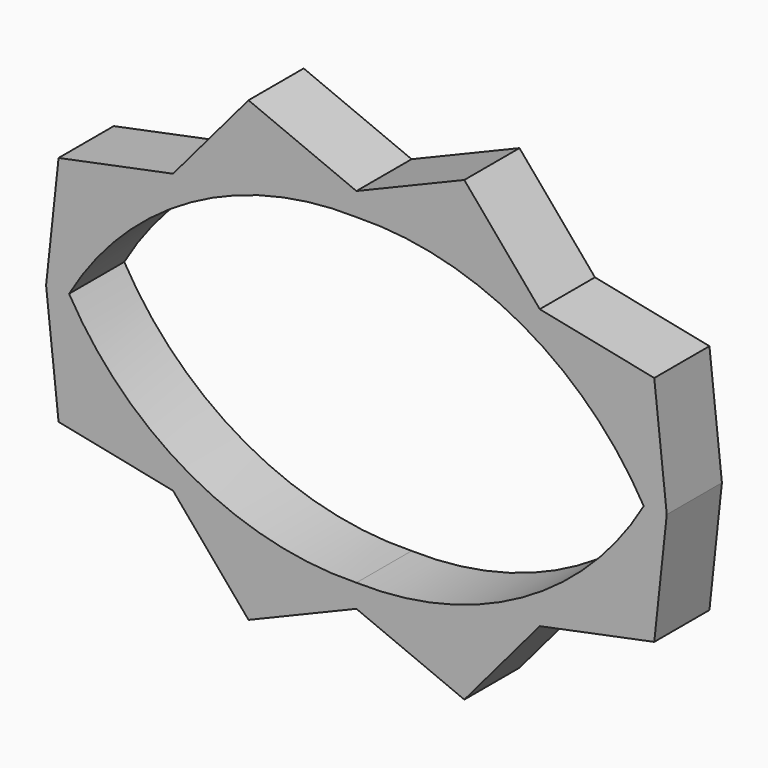
from build123d import *

# Parameters (mm, degrees)
F1_DEPTH = 7.62


with BuildPart() as f1:
    # F0 (on Front) → F1 (new body)
    with BuildSketch(Plane.XZ):
        with BuildLine():
            Line((-16.0371646342, 12.8369014025), (-13.4971646342, 12.8369014025))
            ThreePointArc((-13.4971646342, 12.8369014025), (-0.0687610955, 26.0958236548), (18.2528353658, 30.6169014025))
            Line((18.2528353658, 30.6169014025), (18.2528353658, 33.1569014025))
            Line((18.2528353658, 33.1569014025), (8.1230382592, 30.7048402699))
            Line((8.1230382592, 30.7048402699), (-2.0067588474, 28.2527791372))
            Line((-2.0067588474, 28.2527791372), (-9.0219617408, 20.5448402699))
            Line((-9.0219617408, 20.5448402699), (-16.0371646342, 12.8369014025))
        make_face()
        with BuildLine():
            ThreePointArc((18.2528353658, -4.9430985975), (-0.0687610955, -0.4220208498), (-13.4971646342, 12.8369014025))
            Line((-13.4971646342, 12.8369014025), (-16.0371646342, 12.8369014025))
            Line((-16.0371646342, 12.8369014025), (-9.0219617408, 5.1289625351))
            Line((-9.0219617408, 5.1289625351), (-2.0067588474, -2.5789763323))
            Line((-2.0067588474, -2.5789763323), (8.1230382592, -5.0310374649))
            Line((8.1230382592, -5.0310374649), (18.2528353658, -7.4830985975))
            Line((18.2528353658, -7.4830985975), (18.2528353658, -4.9430985975))
        make_face()
        with BuildLine():
            Line((18.2528353658, 33.1569014025), (18.2528353658, 30.6169014025))
            ThreePointArc((18.2528353658, 30.6169014025), (36.5744318271, 26.0958236548), (50.0028353658, 12.8369014025))
            Line((50.0028353658, 12.8369014025), (52.5428353658, 12.8369014025))
            Line((52.5428353658, 12.8369014025), (45.5276324724, 20.5448402699))
            Line((45.5276324724, 20.5448402699), (38.512429579, 28.2527791372))
            Line((38.512429579, 28.2527791372), (28.3826324724, 30.7048402699))
            Line((28.3826324724, 30.7048402699), (18.2528353658, 33.1569014025))
        make_face()
        with BuildLine():
            ThreePointArc((50.0028353658, 12.8369014025), (36.5744318271, -0.4220208498), (18.2528353658, -4.9430985975))
            Line((18.2528353658, -4.9430985975), (18.2528353658, -7.4830985975))
            Line((18.2528353658, -7.4830985975), (28.3826324724, -5.0310374649))
            Line((28.3826324724, -5.0310374649), (38.512429579, -2.5789763323))
            Line((38.512429579, -2.5789763323), (45.5276324724, 5.1289625351))
            Line((45.5276324724, 5.1289625351), (52.5428353658, 12.8369014025))
            Line((52.5428353658, 12.8369014025), (50.0028353658, 12.8369014025))
        make_face()
        with BuildLine():
            Line((-14.6573981315, 25.6738028049), (-16.0371646342, 12.8369014025))
            ThreePointArc((-16.0371646342, 12.8369014025), (-13.4333117701, 17.4347377534), (-10.1768890048, 21.5959706983))
            Line((-10.1768890048, 21.5959706983), (-14.6573981315, 25.6738028049))
        make_face()
        with BuildLine():
            Line((-9.0219617408, 5.1289625351), (-16.0371646342, 12.8369014025))
            ThreePointArc((-16.0371646342, 12.8369014025), (-13.4333117701, 8.2390650515), (-10.1768890048, 4.0778321066))
            Line((-10.1768890048, 4.0778321066), (-9.0219617408, 5.1289625351))
        make_face()
        with BuildLine():
            ThreePointArc((-10.1768890048, 21.5959706983), (-13.4333117701, 17.4347377534), (-16.0371646342, 12.8369014025))
            Line((-16.0371646342, 12.8369014025), (-9.0219617408, 20.5448402699))
            Line((-9.0219617408, 20.5448402699), (-10.1768890048, 21.5959706983))
        make_face()
        with BuildLine():
            ThreePointArc((-10.1768890048, 4.0778321066), (-13.4333117701, 8.2390650515), (-16.0371646342, 12.8369014025))
            Line((-16.0371646342, 12.8369014025), (-14.6573981315, 0))
            Line((-14.6573981315, 0), (-10.1768890048, 4.0778321066))
        make_face()
        with BuildLine():
            Line((8.1230382592, 30.7048402699), (18.2528353658, 33.1569014025))
            ThreePointArc((18.2528353658, 33.1569014025), (12.9694312928, 33.0808077166), (7.7556310569, 32.2226492534))
            Line((7.7556310569, 32.2226492534), (8.1230382592, 30.7048402699))
        make_face()
        with BuildLine():
            Line((30.1753859928, 38.1109482096), (18.2528353658, 33.1569014025))
            ThreePointArc((18.2528353658, 33.1569014025), (23.5362394389, 33.0808077166), (28.7500396748, 32.2226492534))
            Line((28.7500396748, 32.2226492534), (30.1753859928, 38.1109482096))
        make_face()
        with BuildLine():
            ThreePointArc((7.7556310569, 32.2226492534), (12.9694312928, 33.0808077166), (18.2528353658, 33.1569014025))
            Line((18.2528353658, 33.1569014025), (6.3302847389, 38.1109482096))
            Line((6.3302847389, 38.1109482096), (7.7556310569, 32.2226492534))
        make_face()
        with BuildLine():
            ThreePointArc((28.7500396748, 32.2226492534), (23.5362394389, 33.0808077166), (18.2528353658, 33.1569014025))
            Line((18.2528353658, 33.1569014025), (28.3826324724, 30.7048402699))
            Line((28.3826324724, 30.7048402699), (28.7500396748, 32.2226492534))
        make_face()
        with BuildLine():
            Line((6.3302847389, -12.4371454047), (18.2528353658, -7.4830985975))
            ThreePointArc((18.2528353658, -7.4830985975), (12.9694312928, -7.4070049116), (7.7556310569, -6.5488464484))
            Line((7.7556310569, -6.5488464484), (6.3302847389, -12.4371454047))
        make_face()
        with BuildLine():
            Line((28.3826324724, -5.0310374649), (18.2528353658, -7.4830985975))
            ThreePointArc((18.2528353658, -7.4830985975), (23.5362394389, -7.4070049116), (28.7500396748, -6.5488464484))
            Line((28.7500396748, -6.5488464484), (28.3826324724, -5.0310374649))
        make_face()
        with BuildLine():
            ThreePointArc((28.7500396748, -6.5488464484), (23.5362394389, -7.4070049116), (18.2528353658, -7.4830985975))
            Line((18.2528353658, -7.4830985975), (30.1753859928, -12.4371454047))
            Line((30.1753859928, -12.4371454047), (28.7500396748, -6.5488464484))
        make_face()
        with BuildLine():
            ThreePointArc((7.7556310569, -6.5488464484), (12.9694312928, -7.4070049116), (18.2528353658, -7.4830985975))
            Line((18.2528353658, -7.4830985975), (8.1230382592, -5.0310374649))
            Line((8.1230382592, -5.0310374649), (7.7556310569, -6.5488464484))
        make_face()
        with BuildLine():
            Line((-14.6573981315, 25.6738028049), (-10.1768890048, 21.5959706983))
            ThreePointArc((-10.1768890048, 21.5959706983), (-6.339797351, 25.2287212387), (-2.0067588474, 28.2527791372))
            Line((-2.0067588474, 28.2527791372), (-14.6573981315, 25.6738028049))
        make_face()
        with BuildLine():
            ThreePointArc((-2.0067588474, 28.2527791372), (-6.339797351, 25.2287212387), (-10.1768890048, 21.5959706983))
            Line((-10.1768890048, 21.5959706983), (-9.0219617408, 20.5448402699))
            Line((-9.0219617408, 20.5448402699), (-2.0067588474, 28.2527791372))
        make_face()
        with BuildLine():
            Line((-9.0219617408, 5.1289625351), (-10.1768890048, 4.0778321066))
            ThreePointArc((-10.1768890048, 4.0778321066), (-6.339797351, 0.4450815663), (-2.0067588474, -2.5789763323))
            Line((-2.0067588474, -2.5789763323), (-9.0219617408, 5.1289625351))
        make_face()
        with BuildLine():
            ThreePointArc((-2.0067588474, -2.5789763323), (-6.339797351, 0.4450815663), (-10.1768890048, 4.0778321066))
            Line((-10.1768890048, 4.0778321066), (-14.6573981315, 0))
            Line((-14.6573981315, 0), (-2.0067588474, -2.5789763323))
        make_face()
        with BuildLine():
            Line((45.5276324724, 20.5448402699), (52.5428353658, 12.8369014025))
            ThreePointArc((52.5428353658, 12.8369014025), (49.9389825017, 17.4347377534), (46.6825597365, 21.5959706983))
            Line((46.6825597365, 21.5959706983), (45.5276324724, 20.5448402699))
        make_face()
        with BuildLine():
            Line((51.1630688631, 0), (52.5428353658, 12.8369014025))
            ThreePointArc((52.5428353658, 12.8369014025), (49.9389825017, 8.2390650515), (46.6825597365, 4.0778321066))
            Line((46.6825597365, 4.0778321066), (51.1630688631, 0))
        make_face()
        with BuildLine():
            ThreePointArc((46.6825597365, 21.5959706983), (49.9389825017, 17.4347377534), (52.5428353658, 12.8369014025))
            Line((52.5428353658, 12.8369014025), (51.1630688631, 25.6738028049))
            Line((51.1630688631, 25.6738028049), (46.6825597365, 21.5959706983))
        make_face()
        with BuildLine():
            ThreePointArc((46.6825597365, 4.0778321066), (49.9389825017, 8.2390650515), (52.5428353658, 12.8369014025))
            Line((52.5428353658, 12.8369014025), (45.5276324724, 5.1289625351))
            Line((45.5276324724, 5.1289625351), (46.6825597365, 4.0778321066))
        make_face()
        with BuildLine():
            Line((8.1230382592, 30.7048402699), (7.7556310569, 32.2226492534))
            ThreePointArc((7.7556310569, 32.2226492534), (2.7265540832, 30.6013739404), (-2.0067588474, 28.2527791372))
            Line((-2.0067588474, 28.2527791372), (8.1230382592, 30.7048402699))
        make_face()
        with BuildLine():
            ThreePointArc((-2.0067588474, 28.2527791372), (2.7265540832, 30.6013739404), (7.7556310569, 32.2226492534))
            Line((7.7556310569, 32.2226492534), (6.3302847389, 38.1109482096))
            Line((6.3302847389, 38.1109482096), (-2.0067588474, 28.2527791372))
        make_face()
        with BuildLine():
            Line((30.1753859928, 38.1109482096), (28.7500396748, 32.2226492534))
            ThreePointArc((28.7500396748, 32.2226492534), (33.7791166485, 30.6013739404), (38.512429579, 28.2527791372))
            Line((38.512429579, 28.2527791372), (30.1753859928, 38.1109482096))
        make_face()
        with BuildLine():
            ThreePointArc((38.512429579, 28.2527791372), (33.7791166485, 30.6013739404), (28.7500396748, 32.2226492534))
            Line((28.7500396748, 32.2226492534), (28.3826324724, 30.7048402699))
            Line((28.3826324724, 30.7048402699), (38.512429579, 28.2527791372))
        make_face()
        with BuildLine():
            Line((6.3302847389, -12.4371454047), (7.7556310569, -6.5488464484))
            ThreePointArc((7.7556310569, -6.5488464484), (2.7265540832, -4.9275711355), (-2.0067588474, -2.5789763323))
            Line((-2.0067588474, -2.5789763323), (6.3302847389, -12.4371454047))
        make_face()
        with BuildLine():
            ThreePointArc((-2.0067588474, -2.5789763323), (2.7265540832, -4.9275711355), (7.7556310569, -6.5488464484))
            Line((7.7556310569, -6.5488464484), (8.1230382592, -5.0310374649))
            Line((8.1230382592, -5.0310374649), (-2.0067588474, -2.5789763323))
        make_face()
        with BuildLine():
            Line((28.3826324724, -5.0310374649), (28.7500396748, -6.5488464484))
            ThreePointArc((28.7500396748, -6.5488464484), (33.7791166485, -4.9275711355), (38.512429579, -2.5789763323))
            Line((38.512429579, -2.5789763323), (28.3826324724, -5.0310374649))
        make_face()
        with BuildLine():
            ThreePointArc((38.512429579, -2.5789763323), (33.7791166485, -4.9275711355), (28.7500396748, -6.5488464484))
            Line((28.7500396748, -6.5488464484), (30.1753859928, -12.4371454047))
            Line((30.1753859928, -12.4371454047), (38.512429579, -2.5789763323))
        make_face()
        with BuildLine():
            Line((45.5276324724, 20.5448402699), (46.6825597365, 21.5959706983))
            ThreePointArc((46.6825597365, 21.5959706983), (42.8454680827, 25.2287212387), (38.512429579, 28.2527791372))
            Line((38.512429579, 28.2527791372), (45.5276324724, 20.5448402699))
        make_face()
        with BuildLine():
            ThreePointArc((38.512429579, 28.2527791372), (42.8454680827, 25.2287212387), (46.6825597365, 21.5959706983))
            Line((46.6825597365, 21.5959706983), (51.1630688631, 25.6738028049))
            Line((51.1630688631, 25.6738028049), (38.512429579, 28.2527791372))
        make_face()
        with BuildLine():
            Line((51.1630688631, 0), (46.6825597365, 4.0778321066))
            ThreePointArc((46.6825597365, 4.0778321066), (42.8454680827, 0.4450815663), (38.512429579, -2.5789763323))
            Line((38.512429579, -2.5789763323), (51.1630688631, 0))
        make_face()
        with BuildLine():
            ThreePointArc((38.512429579, -2.5789763323), (42.8454680827, 0.4450815663), (46.6825597365, 4.0778321066))
            Line((46.6825597365, 4.0778321066), (45.5276324724, 5.1289625351))
            Line((45.5276324724, 5.1289625351), (38.512429579, -2.5789763323))
        make_face()
    extrude(amount=F1_DEPTH)


solid = f1.part
